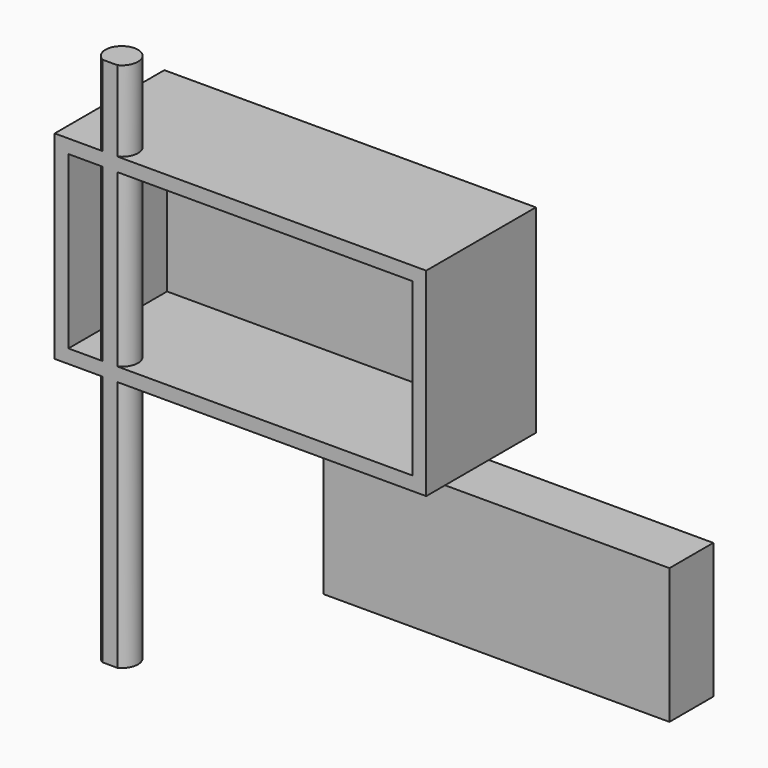
from build123d import *

# Parameters (mm, degrees)
F0_W      = 67.7743945271
F0_H      = 36.2195130438
F1_DEPTH  = 25
F2_T      = -2.5
F4_DEPTH  = 48.4
F6_W      = 63.1097578444
F6_H      = 24.6951244771
F7_DEPTH  = 10
F9_R      = 4.5132770752
F10_DEPTH = 82.7302714655


with BuildPart() as f1:
    # F0 (on Front) → F1 (new body)
    with BuildSketch(Plane.XZ):
        with Locations((-5.4878061637, -5.0790766254)):
            Rectangle(F0_W, F0_H)
    extrude(amount=F1_DEPTH)

    # F2
    f2_openings = [f1.faces().sort_by_distance(p)[0] for p in [
        (-5.487806, -25, -5.079077),
    ]]
    offset(amount=F2_T, openings=f2_openings)

    # F3 (on face) → F4 (join, symmetric)
    with BuildSketch(Plane.XY.offset(-20.6888331473)):
        with BuildLine():
            ThreePointArc((-27.9406612677, -25), (-26.7466375137, -23.9035563981), (-26.3048927837, -22.3438311368))
            ThreePointArc((-26.3048927837, -22.3438311368), (-30.8390522813, -19.8111416305), (-30.6179927724, -25))
            Line((-30.6179927724, -25), (-27.9406612677, -25))
        make_face()
    extrude(amount=F4_DEPTH, both=True)


with BuildPart() as f5_1:
    # F5: copy of F1
    add(f1.part)


with BuildPart() as f7:
    # F6 (on Front) → F7 (new body)
    with BuildSketch(Plane.XZ):
        with Locations((29.222561745, -42.6705423743)):
            Rectangle(F6_W, F6_H)
    extrude(amount=F7_DEPTH)

    # F9 (on face) → F10 (cut, through all)
    with BuildSketch(Plane(origin=(0, 0, -55.0181046128), x_dir=(1, 0, 0), z_dir=(0, 0, -1))):
        with Locations((4.5302640647, 4.5455978252)):
            Circle(F9_R)
    extrude(amount=-F10_DEPTH, mode=Mode.SUBTRACT)


solid = Compound([f1.part, f7.part])
